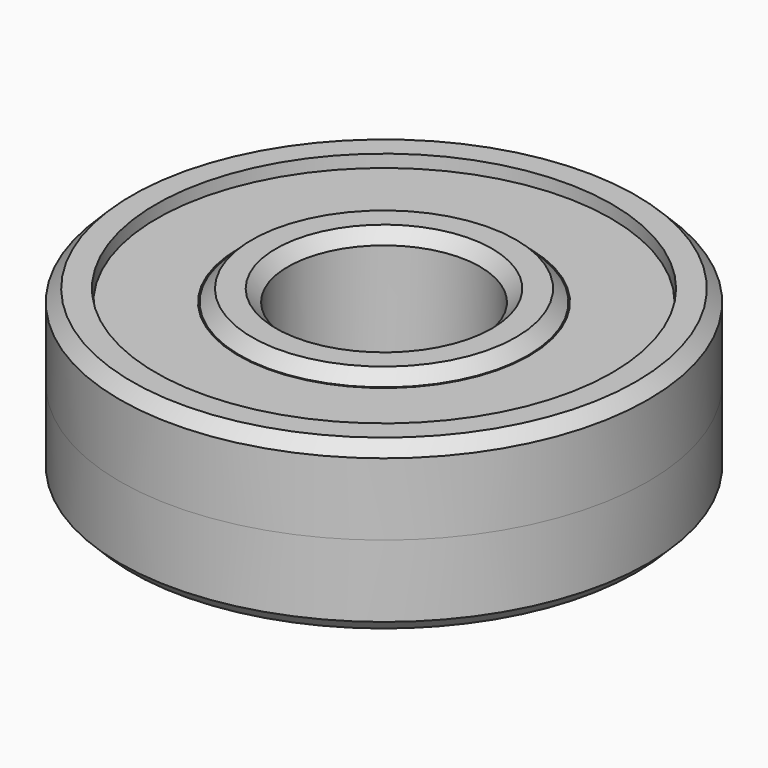
from build123d import *

# Parameters (mm, degrees)
F0_R     = 11
F0_R_2   = 9.5
F0_R_3   = 6
F0_R_4   = 4
F1_DEPTH = 3.5
F2_R     = 9.25
F2_R_2   = 6.25
F3_DEPTH = 2.5
F4_R     = 9.45
F4_R_2   = 6.05
F5_DEPTH = 3
F6_SIZE  = 0.5


with BuildPart() as f1:
    # F0 (on Top) → F1 (new body, symmetric)
    with BuildSketch(Plane.XY):
        Circle(F0_R)
        Circle(F0_R_2, mode=Mode.SUBTRACT)
        Circle(F0_R_3)
        Circle(F0_R_4, mode=Mode.SUBTRACT)
    extrude(amount=F1_DEPTH, both=True)

    # F6
    f6_edges = [f1.edges().sort_by_distance(p)[0] for p in [
        (-11, 0, 3.5),
        (-11, 0, -3.5),
        (-6, 0, 3.5),
        (-4, 0, 3.5),
        (-6, 0, -3.5),
        (-4, 0, -3.5),
    ]]
    chamfer(f6_edges, length=F6_SIZE)


with BuildPart() as f3:
    # F2 (on Top) → F3 (new body)
    with BuildSketch(Plane.XY):
        Circle(F2_R)
        Circle(F2_R_2, mode=Mode.SUBTRACT)
    extrude(amount=-F3_DEPTH)


with BuildPart() as f5:
    # F4 (on Top) → F5 (new body)
    with BuildSketch(Plane.XY):
        Circle(F4_R)
        Circle(F4_R_2, mode=Mode.SUBTRACT)
    extrude(amount=F5_DEPTH)


solid = Compound([f1.part, f3.part, f5.part])
